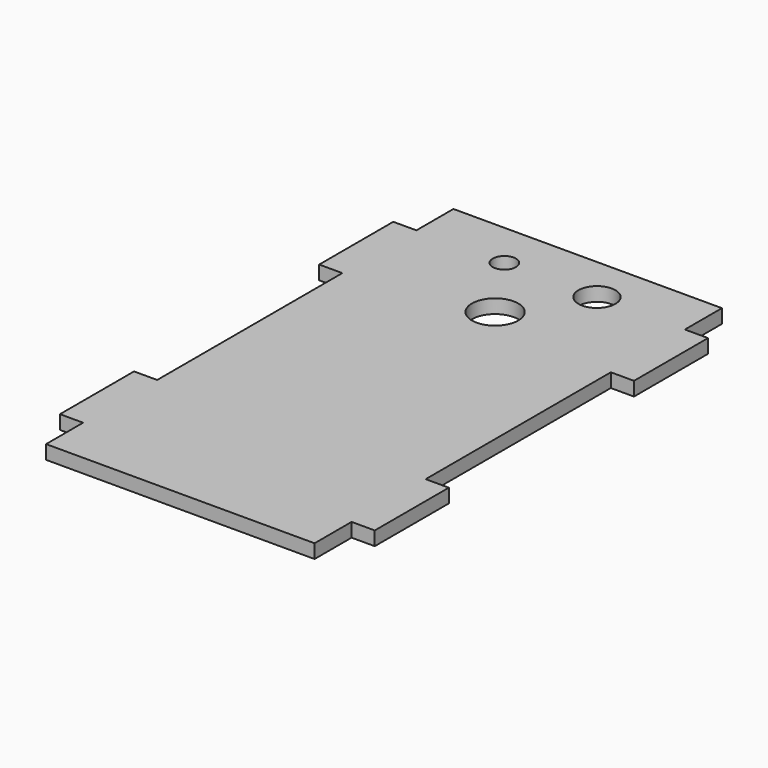
from build123d import *

# Parameters (mm, degrees)
F0_R     = 2.5
F0_R_2   = 5
F0_R_3   = 4
F1_DEPTH = 1.5


with BuildPart() as f1:
    # F0 (on Top) → F1 (new body, symmetric)
    with BuildSketch(Plane.XY):
        Polygon((29, 55), (-29, 55), (-29, 45), (-34, 45), (-34, 25), (-29, 25), (-29, -25), (-34, -25), (-34, -45), (-29, -45), (-29, -55), (29, -55), (29, -45), (34, -45), (34, -25), (29, -25), (29, 25), (34, 25), (34, 45), (29, 45), align=None)
        with Locations((-10, 45)):
            Circle(F0_R, mode=Mode.SUBTRACT)
        with Locations((0, 30)):
            Circle(F0_R_2, mode=Mode.SUBTRACT)
        with Locations((10, 45)):
            Circle(F0_R_3, mode=Mode.SUBTRACT)
    extrude(amount=F1_DEPTH, both=True)


solid = f1.part
